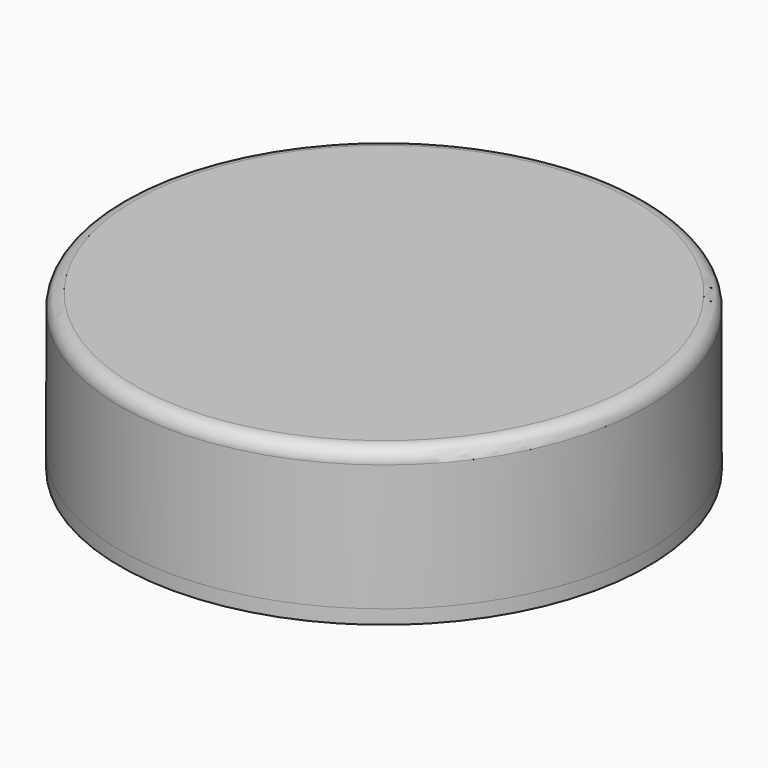
from build123d import *

# Parameters (mm, degrees)
SKETCH_W           = 3.81
SKETCH_H           = 3.81
SKETCH_W_2         = 3.2258
SKETCH_H_2         = 2.2098
PAD_DEPTH          = 2.54
SKETCH001_R        = 4.7625
PAD001_DEPTH       = 2.54
FILLET_R           = 0.254
FILLET_FACE14_W    = 2.2098
FILLET_FACE14_H    = 3.2258
POCKET_DEPTH       = 2.286
POCKET_FACE11_W    = 3.81
POCKET_FACE11_H    = 3.81
POCKET_FACE11_W_2  = 2.2098
POCKET_FACE11_H_2  = 3.2258
POCKET001_DEPTH    = 2.286
POCKET001_FACE11_R = 4.7625
POCKET001_FACE11_W = 3.81
POCKET001_FACE11_H = 3.81
PAD002_DEPTH       = 0.254


with BuildPart() as part:
    # Sketch → Pad (new body)
    with BuildSketch(Plane.XY):
        Rectangle(SKETCH_W, SKETCH_H)
        Rectangle(SKETCH_W_2, SKETCH_H_2, mode=Mode.SUBTRACT)
    extrude(amount=PAD_DEPTH)

    # Sketch001 (on Face10 of Pad) → Pad001 (join)
    with BuildSketch(Plane.XY.offset(2.54)):
        Circle(SKETCH001_R)
    extrude(amount=PAD001_DEPTH)

    # Fillet
    fillet_edges = [part.edges().sort_by_distance(p)[0] for p in [
        (-4.7625, 0, 5.08),
    ]]
    fillet(fillet_edges, radius=FILLET_R)

    # Fillet Face14 → Pocket (cut)
    with BuildSketch(Plane(origin=(0, 0, 2.54), x_dir=(0, -1, 0), z_dir=(0, 0, -1))):
        Rectangle(FILLET_FACE14_W, FILLET_FACE14_H)
    extrude(amount=-POCKET_DEPTH, mode=Mode.SUBTRACT)

    # Pocket Face11 → Pocket001 (cut)
    with BuildSketch(Plane(origin=(0, 0, 0), x_dir=(0, -1, 0), z_dir=(0, 0, -1))):
        Rectangle(POCKET_FACE11_W, POCKET_FACE11_H)
        Rectangle(POCKET_FACE11_W_2, POCKET_FACE11_H_2, mode=Mode.SUBTRACT)
    extrude(amount=-POCKET001_DEPTH, mode=Mode.SUBTRACT)

    # Pocket001 Face11 → Pad002 (add)
    with BuildSketch(Plane(origin=(0, 0, 2.54), x_dir=(0, -1, 0), z_dir=(0, 0, -1))):
        Circle(POCKET001_FACE11_R)
        Rectangle(POCKET001_FACE11_W, POCKET001_FACE11_H, mode=Mode.SUBTRACT)
    extrude(amount=PAD002_DEPTH)


solid = part.part
